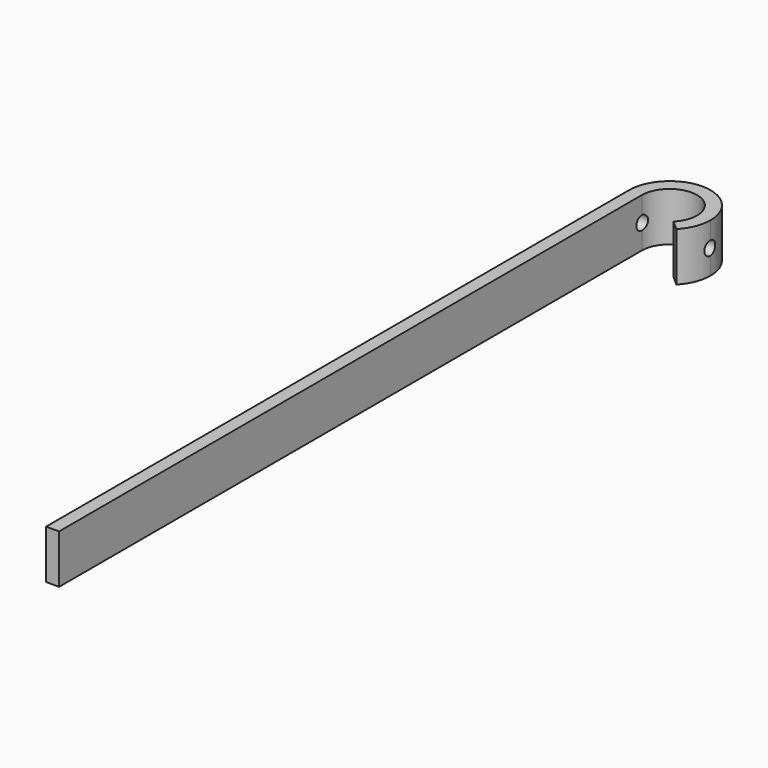
from build123d import *

# Parameters (mm, degrees)
F1_DEPTH      = 11.9253
F1_DEPTH_BACK = 11.90625
F2_R          = 3.3274
F3_DEPTH      = 25.4
F3_DEPTH_BACK = 25.4


with BuildPart() as f1:
    # F0 (on Top) → F1 (new body, two sides)
    with BuildSketch(Plane.XY) as f1_sk:
        with BuildLine():
            Line((-13.500367, -355.6), (-13.500367, 0))
            ThreePointArc((-13.500367, 0), (5.143992, 12.481957), (9.580376, -9.511903))
            Line((9.580376, -9.511903), (14.319075, -13.723394))
            ThreePointArc((14.319075, -13.723394), (18.454394, -7.404682), (19.936847, 0))
            ThreePointArc((19.936847, 0), (0.04324, 20.026104), (-19.850367, 0))
            Line((-19.850367, 0), (-19.850367, -355.6))
            Line((-19.850367, -355.6), (-13.500367, -355.6))
        make_face()
    extrude(amount=F1_DEPTH)
    extrude(f1_sk.sketch, amount=-F1_DEPTH_BACK)

    # F2 (on Right) → F3 (cut, two sides)
    with BuildSketch(Plane.YZ) as f3_sk:
        Circle(F2_R)
    extrude(amount=F3_DEPTH, mode=Mode.SUBTRACT)
    extrude(f3_sk.sketch, amount=-F3_DEPTH_BACK, mode=Mode.SUBTRACT)


solid = f1.part
